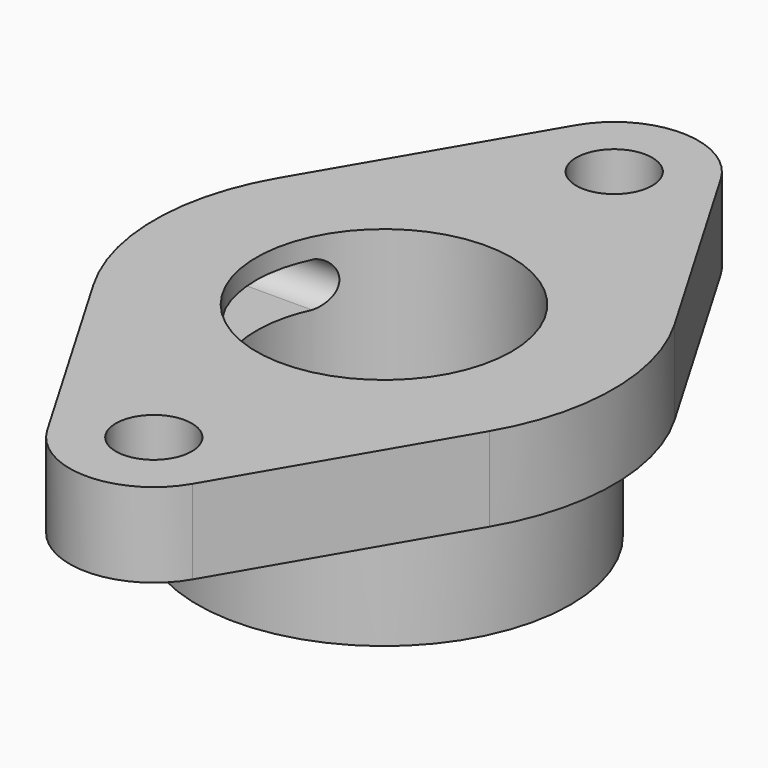
from build123d import *

# Parameters (mm, degrees)
F0_R          = 7.112
F0_R_2        = 34.925
F1_DEPTH      = 15.748
F2_R          = 34.925
F2_R_2        = 23.876
F3_DEPTH      = 15.748
F3_DEPTH_BACK = 22.352
F5_DEPTH      = 79.38265


with BuildPart() as f1:
    # F0 (on Top) → F1 (new body)
    with BuildSketch(Plane.XY):
        with BuildLine():
            Line((-13.59501, 61.796283), (-37.057366, 21.665481))
            ThreePointArc((-37.057366, 21.665481), (-42.926, 0), (-37.057366, -21.665481))
            Line((-37.057366, -21.665481), (-13.59501, -61.796283))
            ThreePointArc((-13.59501, -61.796283), (0, -69.596), (13.59501, -61.796283))
            Line((13.59501, -61.796283), (37.057366, -21.665481))
            ThreePointArc((37.057366, -21.665481), (42.926, 0), (37.057366, 21.665481))
            Line((37.057366, 21.665481), (13.59501, 61.796283))
            ThreePointArc((13.59501, 61.796283), (0, 69.596), (-13.59501, 61.796283))
        make_face()
        with Locations((0, -53.848)):
            Circle(F0_R, mode=Mode.SUBTRACT)
        Circle(F0_R_2, mode=Mode.SUBTRACT)
        with Locations((0, 53.848)):
            Circle(F0_R, mode=Mode.SUBTRACT)
    extrude(amount=F1_DEPTH)

    # F2 (on Top) → F3 (join, two sides)
    with BuildSketch(Plane.XY) as f3_sk:
        Circle(F2_R)
        Circle(F2_R_2, mode=Mode.SUBTRACT)
    extrude(amount=F3_DEPTH)
    extrude(f3_sk.sketch, amount=-F3_DEPTH_BACK)

    # F4 (on Right) → F5 (cut)
    with BuildSketch(Plane.YZ):
        with BuildLine():
            Line((10.621512, 11.971553), (-9.737266, 12.083825))
            ThreePointArc((-9.737266, 12.083825), (-13.861735, 7.963569), (-9.916249, 3.671612))
            Line((-9.916249, 3.671612), (10.15985, 3.69405))
            ThreePointArc((10.15985, 3.69405), (13.856154, 7.639521), (10.621512, 11.971553))
        make_face()
    extrude(amount=-F5_DEPTH, mode=Mode.SUBTRACT)


solid = f1.part
